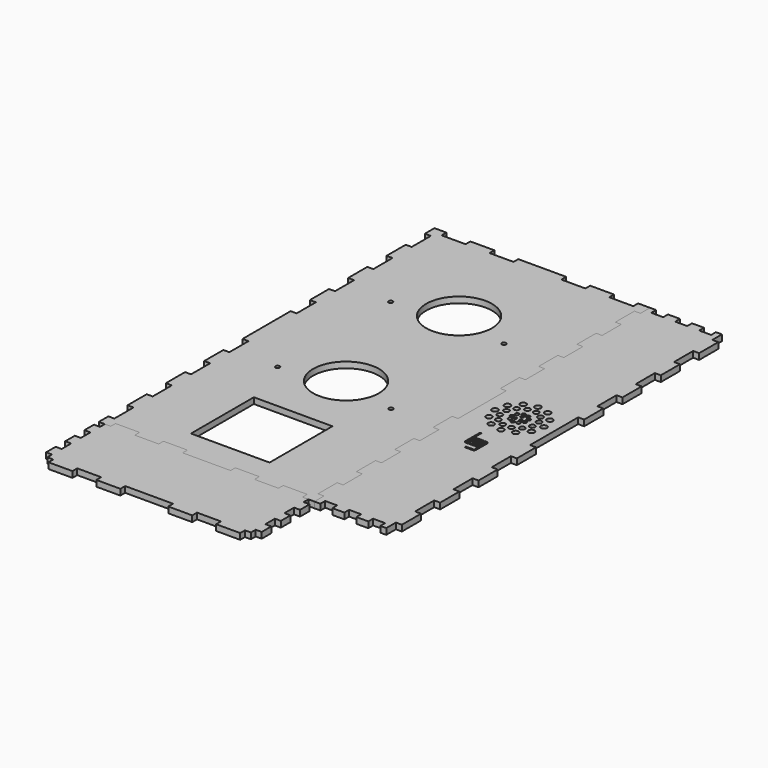
from build123d import *

# Parameters (mm, degrees)
F2_DEPTH = 5
F3_DEPTH = 5
F1_W     = 4.3666362762
F1_H     = 1.2
F1_W_2   = 4.7030267715
F4_DEPTH = 5
F5_R     = 1.75
F5_R_2   = 27.5
F5_W     = 65.6
F5_H     = 65.6
F6_DEPTH = 5.001
F7_R     = 2.5
F7_R_2   = 2.25
F7_R_3   = 1.25
F7_R_4   = 1.5415216402
F8_DEPTH = 5.001


with BuildPart() as f2:
    # F1 (on Top) → F2 (new body)
    with BuildSketch(Plane.XY):
        Polygon((-80, 175.1082485914), (-90, 175.1082485914), (-90, 165.1082485914), (-85, 165.1082485914), (-85, 145.1082485914), (-90, 145.1082485914), (-90, 125.1082485914), (-85, 125.1082485914), (-85, 105.1082485914), (-90, 105.1082485914), (-90, 85.1082485914), (-85, 85.1082485914), (-85, 65.1082485914), (-90, 65.1082485914), (-90, 45.1082485914), (-85, 45.1082485914), (-85, 25.1082485914), (-90, 25.1082485914), (-90, 0), (-90, -25.1082485914), (-85, -25.1082485914), (-85, -45.1082485914), (-90, -45.1082485914), (-90, -65.1082485914), (-85, -65.1082485914), (-85, -85.1082485914), (-90, -85.1082485914), (-90, -105.1082485914), (-85, -105.1082485914), (-85, -125.1082485914), (-90, -125.1082485914), (-90, -145.1082485914), (-85, -145.1082485914), (-85, -165.1082485914), (-90, -165.1082485914), (-90, -175.1082485914), (-85, -175.1082485914), (-80, -175.1082485914), (-80, -170.1082485914), (-60, -170.1082485914), (-60, -175.1082485914), (-40, -175.1082485914), (-40, -170.1082485914), (-20, -170.1082485914), (-20, -175.1082485914), (0, -175.1082485914), (20, -175.1082485914), (20, -170.1082485914), (40, -170.1082485914), (40, -175.1082485914), (60, -175.1082485914), (60, -170.1082485914), (80, -170.1082485914), (80, -175.1082485914), (85, -175.1082485914), (90, -175.1082485914), (90, -165.1082485914), (85, -165.1082485914), (85, -145.1082485914), (90, -145.1082485914), (90, -125.1082485914), (85, -125.1082485914), (85, -105.1082485914), (90, -105.1082485914), (90, -85.1082485914), (85, -85.1082485914), (85, -65.1082485914), (90, -65.1082485914), (90, -45.1082485914), (85, -45.1082485914), (85, -25.1082485914), (90, -25.1082485914), (90, 0), (90, 25.1082485914), (85, 25.1082485914), (85, 45.1082485914), (90, 45.1082485914), (90, 65.1082485914), (85, 65.1082485914), (85, 85.1082485914), (90, 85.1082485914), (90, 105.1082485914), (85, 105.1082485914), (85, 125.1082485914), (90, 125.1082485914), (90, 145.1082485914), (85, 145.1082485914), (85, 165.1082485914), (90, 165.1082485914), (90, 175.1082485914), (80, 175.1082485914), (80, 170.1082485914), (60, 170.1082485914), (60, 175.1082485914), (40, 175.1082485914), (40, 170.1082485914), (20, 170.1082485914), (20, 175.1082485914), (0, 175.1082485914), (-20, 175.1082485914), (-20, 170.1082485914), (-40, 170.1082485914), (-40, 175.1082485914), (-60, 175.1082485914), (-60, 170.1082485914), (-80, 170.1082485914), align=None)
    extrude(amount=F2_DEPTH)

    # F5 (on face) → F6 (cut, through all)
    with BuildSketch(Plane.XY.offset(5)):
        with Locations((47.3000023842, 76.0395019889)):
            Circle(F5_R)
        with Locations((-47.2999976158, 76.0395019889)):
            Circle(F5_R)
        with Locations((2.3842e-06, 88.3395019889)):
            Circle(F5_R_2)
        with Locations((-1.609e-07, -117.6082481444)):
            Rectangle(F5_W, F5_H)
        with Locations((-0.1370659471, -29.4082481444)):
            Circle(F5_R_2)
        with Locations((-47.4370659471, -41.7082481444)):
            Circle(F5_R)
        with Locations((47.1629340529, -41.7082481444)):
            Circle(F5_R)
    extrude(amount=-F6_DEPTH, mode=Mode.SUBTRACT)


with BuildPart() as f3:
    # F1 (on Top) → F3 (new body)
    with BuildSketch(Plane.XY):
        Polygon((-80, -175.1082485914), (-85, -175.1082485914), (-85, -180.1082485914), (-90, -180.1082485914), (-90, -190.1082485914), (-85, -190.1082485914), (-85, -200.0510078275), (-90, -200.1082485914), (-90, -210.1082485914), (-85, -210.1082485914), (-85, -220.1082485914), (-90, -220.1082485914), (-90, -230.1082485914), (-85, -230.1082485914), (-85, -235.1082485914), (-80, -235.1082485914), (-80, -240.1082485914), (-60, -240.1082485914), (-60, -235.1082485914), (-40, -235.1082485914), (-40, -240.1082485914), (-20, -240.1082485914), (-20, -235.1082485914), (0, -235.1082485914), (20, -235.1082485914), (20, -240.1082485914), (40, -240.1082485914), (40, -235.1082485914), (60, -235.1082485914), (60, -240.1082485914), (80, -240.1082485914), (80, -235.1082485914), (85, -235.1082485914), (85, -230.1082485914), (90, -230.1082485914), (90, -220.1082485914), (85, -220.1082485914), (85, -210.1082485914), (90, -210.1082485914), (90, -200.1082485914), (85, -200.1082485914), (85, -190.1082485914), (90, -190.1082485914), (90, -180.1082485914), (85, -180.1082485914), (85, -175.1082485914), (80, -175.1082485914), (80, -170.1082485914), (60, -170.1082485914), (60, -175.1082485914), (40, -175.1082485914), (40, -170.1082485914), (20, -170.1082485914), (20, -175.1082485914), (0, -175.1082485914), (-20, -175.1082485914), (-20, -170.1082485914), (-40, -170.1082485914), (-40, -175.1082485914), (-60, -175.1082485914), (-60, -170.1082485914), (-80, -170.1082485914), align=None)
    extrude(amount=F3_DEPTH)


with BuildPart() as f4:
    # F1 (on Top) → F4 (new body)
    with BuildSketch(Plane.XY):
        Polygon((95, 175.1082485914), (90, 175.1082485914), (90, 165.1082485914), (85, 165.1082485914), (85, 145.1082485914), (90, 145.1082485914), (90, 125.1082485914), (85, 125.1082485914), (85, 105.1082485914), (90, 105.1082485914), (90, 85.1082485914), (85, 85.1082485914), (85, 65.1082485914), (90, 65.1082485914), (90, 45.1082485914), (85, 45.1082485914), (85, 25.1082485914), (90, 25.1082485914), (90, 0), (90, -25.1082485914), (85, -25.1082485914), (85, -45.1082485914), (90, -45.1082485914), (90, -65.1082485914), (85, -65.1082485914), (85, -85.1082485914), (90, -85.1082485914), (90, -105.1082485914), (85, -105.1082485914), (85, -125.1082485914), (90, -125.1082485914), (90, -145.1082485914), (85, -145.1082485914), (85, -165.1082485914), (90, -165.1082485914), (90, -175.1082485914), (95, -175.1082485914), (95, -170.1082485914), (105, -170.1082485914), (105, -175.1082485914), (115, -175.1082485914), (115, -170.1082485914), (125, -170.1082485914), (125, -175.1082485914), (135, -175.1082485914), (135, -170.1082485914), (145, -170.1082485914), (145, -175.1082485914), (150, -175.1082485914), (150, -165.1082485914), (155, -165.1082485914), (155, -145.1082485914), (150, -145.1082485914), (150, -125.1082485914), (155, -125.1082485914), (155, -105.1082485914), (150, -105.1082485914), (150, -85.1082485914), (155, -85.1082485914), (155, -65.1082485914), (150, -65.1082485914), (150, -45.1082485914), (155, -45.1082485914), (155, -25.1082485914), (150, -25.1082485914), (150, 0), (150, 25.1082485914), (155, 25.1082485914), (155, 45.1082485914), (150, 45.1082485914), (150, 65.1082485914), (155, 65.1082485914), (155, 85.1082485914), (150, 85.1082485914), (150, 105.1082485914), (155, 105.1082485914), (155, 125.1082485914), (150, 125.1082485914), (150, 145.1082485914), (155, 145.1082485914), (155, 165.1082485914), (150, 165.1082485914), (150, 175.1082485914), (145, 175.1082485914), (145, 170.1082485914), (135, 170.1082485914), (135, 175.1082485914), (125, 175.1082485914), (125, 170.1082485914), (115, 170.1082485914), (115, 175.1082485914), (105, 175.1082485914), (105, 170.1082485914), (95, 170.1082485914), align=None)
        with Locations((119.8746677013, -48.049742496)):
            Rectangle(F1_W, F1_H, mode=Mode.SUBTRACT)
        with BuildLine():
            Line((125.5726401617, -52.249742496), (125.5726401617, -40.849742496))
            ThreePointArc((125.5726401617, -40.849742496), (125.3969042304, -40.4254784273), (124.9726401617, -40.249742496))
            Line((124.9726401617, -40.249742496), (123.5865054699, -40.249742496))
            Line((123.5865054699, -40.249742496), (123.5865054699, -39.049742496))
            Line((123.5865054699, -39.049742496), (124.9726401617, -39.049742496))
            ThreePointArc((124.9726401617, -39.049742496), (126.2454323679, -39.5769502899), (126.7726401617, -40.849742496))
            Line((126.7726401617, -40.849742496), (126.7726401617, -52.249742496))
            ThreePointArc((126.7726401617, -52.249742496), (126.2454323679, -53.5225347021), (124.9726401617, -54.049742496))
            Line((124.9726401617, -54.049742496), (118.6726401617, -54.049742496))
            Line((118.6726401617, -54.049742496), (118.6726401617, -52.849742496))
            Line((118.6726401617, -52.849742496), (124.9726401617, -52.849742496))
            ThreePointArc((124.9726401617, -52.849742496), (125.3969042304, -52.6740065647), (125.5726401617, -52.249742496))
        make_face(mode=Mode.SUBTRACT)
        with BuildLine():
            Line((114.7726401617, -31.849742496), (114.7726401617, -46.849742496))
            ThreePointArc((114.7726401617, -46.849742496), (114.948376093, -47.2740065647), (115.3726401617, -47.449742496))
            Line((115.3726401617, -47.449742496), (117.4413495632, -47.449742496))
            Line((117.4413495632, -47.449742496), (117.4413495632, -48.649742496))
            Line((117.4413495632, -48.649742496), (115.3726401617, -48.649742496))
            ThreePointArc((115.3726401617, -48.649742496), (114.0998479556, -48.1225347021), (113.5726401617, -46.849742496))
            Line((113.5726401617, -46.849742496), (113.5726401617, -31.849742496))
            Line((113.5726401617, -31.849742496), (114.7726401617, -31.849742496))
        make_face(mode=Mode.SUBTRACT)
        with BuildLine():
            Line((118.3834786983, -40.249742496), (117.4726401617, -40.249742496))
            ThreePointArc((117.4726401617, -40.249742496), (117.048376093, -40.4254784273), (116.8726401617, -40.849742496))
            Line((116.8726401617, -40.849742496), (116.8726401617, -46.049742496))
            Line((116.8726401617, -46.049742496), (115.6726401617, -46.049742496))
            Line((115.6726401617, -46.049742496), (115.6726401617, -40.849742496))
            ThreePointArc((115.6726401617, -40.849742496), (116.1998479556, -39.5769502899), (117.4726401617, -39.049742496))
            Line((117.4726401617, -39.049742496), (118.3834786983, -39.049742496))
            Line((118.3834786983, -39.049742496), (118.3834786983, -40.249742496))
        make_face(mode=Mode.SUBTRACT)
        with BuildLine():
            Line((119.2727889735, -43.299742496), (119.2727889735, -44.4895372952))
            ThreePointArc((119.2727889735, -44.4895372952), (119.3715706292, -44.7435950946), (119.6226401617, -44.849742496))
            Line((119.6226401617, -44.849742496), (122.2726401617, -44.849742496))
            Line((122.2726401617, -44.849742496), (122.2726401617, -46.049742496))
            Line((122.2726401617, -46.049742496), (119.6226401617, -46.049742496))
            ThreePointArc((119.6226401617, -46.049742496), (118.5266246509, -45.5957580069), (118.0726401617, -44.499742496))
            Line((118.0726401617, -44.499742496), (118.0726401617, -43.299742496))
            Line((118.0726401617, -43.299742496), (119.2727889735, -43.299742496))
        make_face(mode=Mode.SUBTRACT)
        with BuildLine():
            Line((122.2726401617, -44.499742496), (121.0726401617, -44.499742496))
            Line((121.0726401617, -44.499742496), (121.0726401617, -42.999742496))
            ThreePointArc((121.0726401617, -42.999742496), (121.0287061789, -42.8936764788), (120.9226401617, -42.849742496))
            Line((120.9226401617, -42.849742496), (118.0726401617, -42.849742496))
            Line((118.0726401617, -42.849742496), (118.0726401617, -41.649742496))
            Line((118.0726401617, -41.649742496), (120.9226401617, -41.649742496))
            ThreePointArc((120.9226401617, -41.649742496), (121.8772343163, -42.0451483414), (122.2726401617, -42.999742496))
            Line((122.2726401617, -42.999742496), (122.2726401617, -44.499742496))
        make_face(mode=Mode.SUBTRACT)
        with BuildLine():
            Line((122.3079858394, -47.449742496), (122.8726401617, -47.449742496))
            ThreePointArc((122.8726401617, -47.449742496), (123.2969042304, -47.2740065647), (123.4726401617, -46.849742496))
            Line((123.4726401617, -46.849742496), (123.4726401617, -41.649742496))
            Line((123.4726401617, -41.649742496), (124.6726401617, -41.649742496))
            Line((124.6726401617, -41.649742496), (124.6726401617, -46.849742496))
            ThreePointArc((124.6726401617, -46.849742496), (124.1454323679, -48.1225347021), (122.8726401617, -48.649742496))
            Line((122.8726401617, -48.649742496), (122.3079858394, -48.649742496))
            Line((122.3079858394, -48.649742496), (122.3079858394, -47.449742496))
        make_face(mode=Mode.SUBTRACT)
        with Locations((120.9849920841, -39.649742496)):
            Rectangle(F1_W_2, F1_H, mode=Mode.SUBTRACT)
    extrude(amount=F4_DEPTH)

    # F7 (on face) → F8 (cut, through all)
    with BuildSketch(Plane.XY.offset(5)):
        with Locations((141.0637968939, 0.5947656727)):
            Circle(F7_R)
        with Locations((138.0881072204, 10.5106593763)):
            Circle(F7_R)
        with Locations((134.3373447016, 3.8805928553)):
            Circle(F7_R_2)
        with Locations((130.6199151532, 9.9930430927)):
            Circle(F7_R_2)
        with Locations((130.5531375177, 17.610230388)):
            Circle(F7_R)
        with Locations((124.3443016089, 13.4278655034)):
            Circle(F7_R_2)
        with Locations((117.1920496498, 13.2647021964)):
            Circle(F7_R_2)
        with Locations((111.0795994125, 9.5472726481)):
            Circle(F7_R_2)
        with Locations((103.4624121172, 9.4804950125)):
            Circle(F7_R)
        with Locations((101.0814881164, -0.5947656727)):
            Circle(F7_R)
        with Locations((107.8079403088, -3.8805928553)):
            Circle(F7_R_2)
        with Locations((104.0571777899, -10.5106593763)):
            Circle(F7_R)
        with Locations((111.5253698571, -9.9930430927)):
            Circle(F7_R_2)
        with Locations((107.6447770018, 3.2716591038)):
            Circle(F7_R_2)
        with Locations((111.5921474927, -17.610230388)):
            Circle(F7_R)
        with Locations((117.8009834014, -13.4278655034)):
            Circle(F7_R_2)
        with Locations((124.9532353605, -13.2647021964)):
            Circle(F7_R_2)
        with Locations((121.6674081779, -19.9911543887)):
            Circle(F7_R)
        with Locations((131.5833018814, -17.0154647153)):
            Circle(F7_R)
        with Locations((131.0656855978, -9.5472726481)):
            Circle(F7_R_2)
        with Locations((134.5005080086, -3.2716591038)):
            Circle(F7_R_2)
        with Locations((138.6828728932, -9.4804950125)):
            Circle(F7_R)
        with Locations((121.0726425052, 2.7374801245)):
            Circle(F7_R_3)
        with Locations((118.701915175, -1.3687400623)):
            Circle(F7_R_3)
        with Locations((120.3045932715, -6.1058780618)):
            Circle(F7_R_4)
        with Locations((116.5594998933, -4.1836814285)):
            Circle(F7_R_4)
        with Locations((114.9261561012, -0.3038937584)):
            Circle(F7_R_4)
        with Locations((116.1688216081, 3.7180891786)):
            Circle(F7_R_4)
        with Locations((119.7060394127, 6.0003368671)):
            Circle(F7_R_4)
        with Locations((123.8827059923, 5.4749602491)):
            Circle(F7_R_4)
        with Locations((126.7445126359, 2.3877888831)):
            Circle(F7_R_4)
        with Locations((126.9523882096, -1.8166554385)):
            Circle(F7_R_4)
        with Locations((124.409065422, -5.1710664906)):
            Circle(F7_R_4)
        with Locations((110.5619831289, 17.0154647153)):
            Circle(F7_R)
        with Locations((120.4778768324, 19.9911543887)):
            Circle(F7_R)
        with Locations((123.4433698354, -1.3687400623)):
            Circle(F7_R_3)
        with Locations((123.4433698354, -1.3687400623)):
            Circle(F7_R_3)
    extrude(amount=-F8_DEPTH, mode=Mode.SUBTRACT)


solid = Compound([f2.part, f3.part, f4.part])
